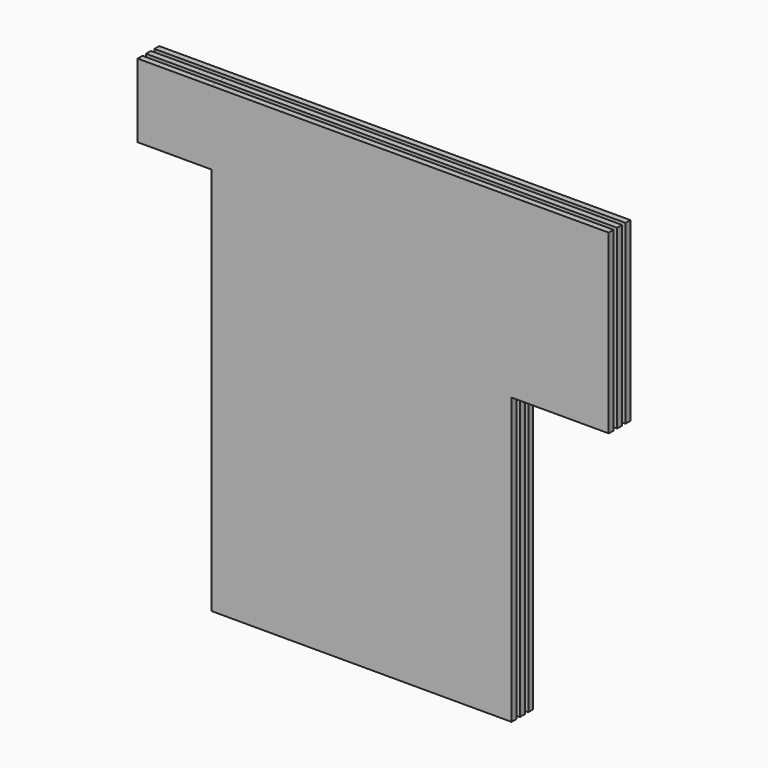
from build123d import *

# Parameters (mm, degrees)
F0_W     = 101.9
F0_H     = 2.06
F1_DEPTH = 78.465
F2_W     = 2.06
F2_H     = 25
F3_W     = 2.06
F3_H     = 24.996869
F4_W     = 2.06
F4_H     = 24.996869
F5_DEPTH = 25
F6_W     = 2.06
F6_H     = 60
F7_W     = 2.06
F7_H     = 60
F8_W     = 2.06
F8_H     = 60
F9_DEPTH = 33


with BuildPart() as f1:
    # F0 (on Top) → F1 (new body, symmetric)
    with BuildSketch(Plane.XY):
        Rectangle(F0_W, F0_H)
        with Locations((0, 3.56)):
            Rectangle(F0_W, F0_H)
        with Locations((0, -3.56)):
            Rectangle(F0_W, F0_H)
    extrude(amount=F1_DEPTH, both=True)

    # F2 (on face) + F3 (on face) + F4 (on face) → F5 (join)
    with BuildSketch(Plane(origin=(-50.95, 0, 0), x_dir=(0, -1, 0), z_dir=(-1, 0, 0))):
        with Locations((-3.56, 65.965)):
            Rectangle(F2_W, F2_H)
    with BuildSketch(Plane(origin=(-50.95, 0, 0), x_dir=(0, -1, 0), z_dir=(-1, 0, 0))):
        with Locations((0, 65.966566)):
            Rectangle(F3_W, F3_H)
    with BuildSketch(Plane(origin=(-50.95, 0, 0), x_dir=(0, -1, 0), z_dir=(-1, 0, 0))):
        with Locations((3.56, 65.966566)):
            Rectangle(F4_W, F4_H)
    extrude(amount=F5_DEPTH)

    # F6 (on face) + F7 (on face) + F8 (on face) → F9 (join)
    with BuildSketch(Plane.YZ.offset(50.95)):
        with Locations((-3.56, 48.465)):
            Rectangle(F6_W, F6_H)
    with BuildSketch(Plane.YZ.offset(50.95)):
        with Locations((0, 48.465)):
            Rectangle(F7_W, F7_H)
    with BuildSketch(Plane.YZ.offset(50.95)):
        with Locations((3.56, 48.465)):
            Rectangle(F8_W, F8_H)
    extrude(amount=F9_DEPTH)


solid = f1.part
